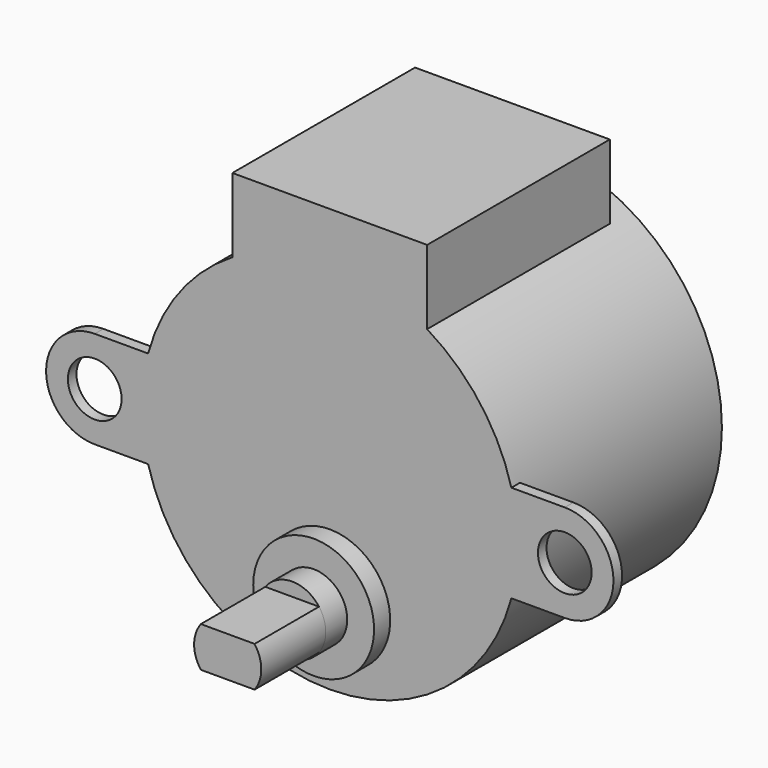
from build123d import *

# Parameters (mm, degrees)
SKETCH008_R             = 14
PAD004_DEPTH            = 19
SKETCH009_R             = 4.5
PAD005_DEPTH            = 1.5
SKETCH010_R             = 2.5
PAD006_DEPTH            = 2
PAD007_DEPTH            = 6
SKETCH012_R             = 2
PAD008_DEPTH            = 0.8
POLARPATTERN_COUNT      = 2
PAD009_DEPTH            = 17
BODY003_PLACEMENT_ANGLE = 180


with BuildPart() as part:
    # Sketch008 → Pad004 (new body)
    with BuildSketch(Plane.XZ):
        Circle(SKETCH008_R)
    extrude(amount=PAD004_DEPTH)

    # Sketch009 (on Face3 of Pad004) → Pad005 (join)
    with BuildSketch(Plane.XZ.offset(19)):
        with Locations((0, 8)):
            Circle(SKETCH009_R)
    extrude(amount=PAD005_DEPTH)

    # Sketch010 (on Face5 of Pad005) → Pad006 (join)
    with BuildSketch(Plane.XZ.offset(20.5)):
        with Locations((0, 8)):
            Circle(SKETCH010_R)
    extrude(amount=PAD006_DEPTH)

    # Sketch011 (on Face7 of Pad006) → Pad007 (join)
    with BuildSketch(Plane.XZ.offset(22.5)):
        with BuildLine():
            ThreePointArc((-2, 9.499999), (-2.5, 7.999999), (-2, 6.499999))
            Line((-2, 6.499999), (2, 6.499999))
            ThreePointArc((2, 6.499999), (2.5, 7.999999), (2, 9.499999))
            Line((2, 9.499999), (-2, 9.499999))
        make_face()
    extrude(amount=PAD007_DEPTH)

    # Sketch012 (on Face3 of Pad007) → Pad008 (join)
    with BuildSketch(Plane.XZ.offset(19)):
        with BuildLine():
            ThreePointArc((13.522863, -3.623834), (14, 0), (13.522863, 3.623834))
            Line((17.5, 3.623834), (13.522863, 3.623834))
            ThreePointArc((17.5, -3.623834), (21.123834, 0), (17.5, 3.623834))
            Line((17.5, -3.623834), (13.522863, -3.623834))
        make_face()
        with Locations((17.5, 0)):
            Circle(SKETCH012_R, mode=Mode.SUBTRACT)
    pad008 = extrude(amount=-PAD008_DEPTH)

    # PolarPattern: Pad008 ×2 about axis
    polarpattern_axis = Axis((0, -19, 0), (0, -1, 0))
    for i in range(1, POLARPATTERN_COUNT):
        add(pad008.rotate(polarpattern_axis, i * 360 / POLARPATTERN_COUNT))

    # Sketch013 (on Face13 of PolarPattern) → Pad009 (join)
    with BuildSketch(Plane.XZ.offset(19)):
        with BuildLine():
            Line((7.25, -17.5), (7.25, -11.90244))
            ThreePointArc((-7.25, -11.902441), (0, -13.925901), (7.25, -11.90244))
            Line((-7.25, -11.902441), (-7.25, -17.5))
            Line((-7.25, -17.5), (7.25, -17.5))
        make_face()
    extrude(amount=-PAD009_DEPTH)


with BuildPart() as part_1:
    # Body003 placement: moved
    add(part.part.rotate(Axis((0, 0, 0), (0, 1, 0)), BODY003_PLACEMENT_ANGLE))


solid = part_1.part
